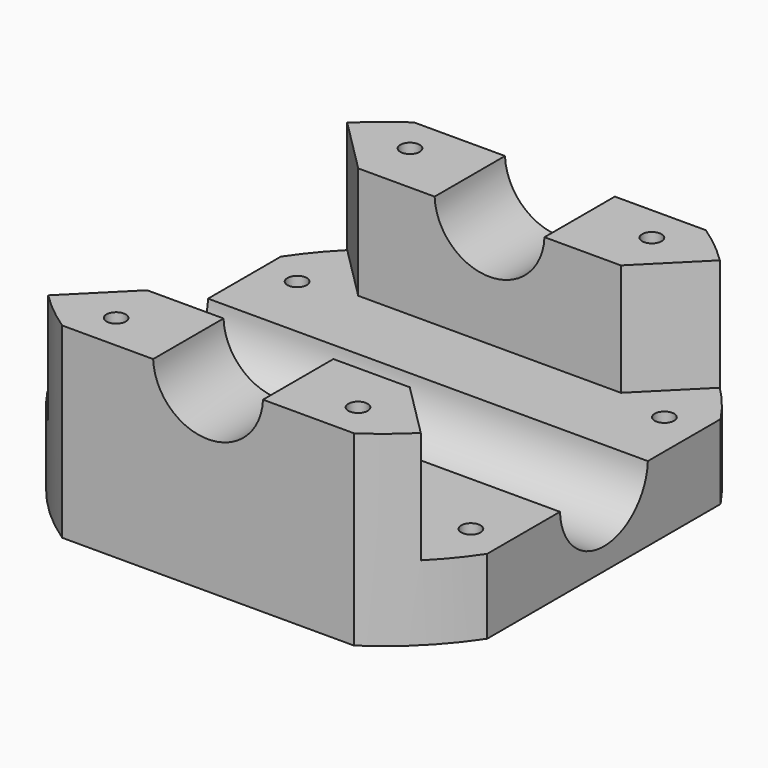
from build123d import *

# Parameters (mm, degrees)
F1_DEPTH         = 42.5
F3_DEPTH         = 25.5
F4_R             = 12.5
F5_DEPTH         = 100.001
F6_R             = 12.5
F7_DEPTH         = 100.0010000004
F9_D             = 4.4
F9_CBORE_D       = 8.75
F9_CBORE_DEPTH   = 40
F10_D            = 4.4
F11_R            = 2.2
F12_DEPTH        = 14.5
F15_D            = 2
F15_DEPTH        = 7.5
F15_TIP          = 0.600860619
F15_ON_F13_D     = 2
F15_ON_F13_DEPTH = 7.5
F15_ON_F13_TIP   = 0.600860619


with BuildPart() as f1:
    # F0 (on Top) → F1 (new body)
    with BuildSketch(Plane.XY):
        with BuildLine():
            Line((33.1662479036, 50), (-33.1662479036, 50))
            ThreePointArc((-33.1662479036, 50), (-42.4264068712, 42.4264068712), (-50, 33.1662479036))
            Line((-50, 33.1662479036), (-50, -33.1662479036))
            ThreePointArc((-50, -33.1662479036), (-42.4264068712, -42.4264068712), (-33.1662479036, -50))
            Line((-33.1662479036, -50), (33.1662479036, -50))
            ThreePointArc((33.1662479036, -50), (42.4264068712, -42.4264068712), (50, -33.1662479036))
            Line((50, -33.1662479036), (50, 33.1662479036))
            ThreePointArc((50, 33.1662479036), (42.4264068712, 42.4264068712), (33.1662479036, 50))
        make_face()
    extrude(amount=F1_DEPTH)

    # F2 (on face) → F3 (cut)
    with BuildSketch(Plane.XY.offset(42.5)):
        with BuildLine():
            Line((-29.8585786438, 30), (-42.3556372675, 42.4970586237))
            ThreePointArc((-42.3556372675, 42.4970586237), (-42.3910367885, 42.4617474911), (-42.4264068712, 42.4264068712))
            ThreePointArc((-42.4264068712, 42.4264068712), (-46.4445670429, 37.985552414), (-50, 33.1662479036))
            Line((-50, 33.1662479036), (-50, -33.1662479036))
            ThreePointArc((-50, -33.1662479036), (-46.4128962783, -38.0242430438), (-42.3556372675, -42.4970586237))
            Line((-42.3556372675, -42.4970586237), (-29.8585786438, -30))
            Line((-29.8585786438, -30), (29.8585786438, -30))
            Line((29.8585786438, -30), (42.3556372675, -42.4970586237))
            ThreePointArc((42.3556372675, -42.4970586237), (42.3910367885, -42.4617474911), (42.4264068712, -42.4264068712))
            ThreePointArc((42.4264068712, -42.4264068712), (46.4445670429, -37.985552414), (50, -33.1662479036))
            Line((50, -33.1662479036), (50, 33.1662479036))
            ThreePointArc((50, 33.1662479036), (46.4445670429, 37.985552414), (42.4264068712, 42.4264068712))
            ThreePointArc((42.4264068712, 42.4264068712), (42.3910367885, 42.4617474911), (42.3556372675, 42.4970586237))
            Line((42.3556372675, 42.4970586237), (29.8585786438, 30))
            Line((29.8585786438, 30), (-29.8585786438, 30))
        make_face()
    extrude(amount=-F3_DEPTH, mode=Mode.SUBTRACT)

    # F4 (on face) → F5 (cut, through all)
    with BuildSketch(Plane.XZ.offset(50)):
        with Locations((0, 43)):
            Circle(F4_R)
    extrude(amount=-F5_DEPTH, mode=Mode.SUBTRACT)

    # F6 (on face) → F7 (cut, through all)
    with BuildSketch(Plane.YZ.offset(50)):
        with Locations((0, 17.5)):
            Circle(F6_R)
    extrude(amount=-F7_DEPTH, mode=Mode.SUBTRACT)

    # F9 (through all)
    with Locations(Plane(origin=(0, 0, 0), x_dir=(1, 0, 0), z_dir=(0, 0, -1))):
        with Locations((-27.5, 41.7582327212), (27.5, 41.7582327212), (27.5, -41.7582327212), (-27.5, -41.7582327212)):
            CounterBoreHole(F9_D / 2, F9_CBORE_D / 2, F9_CBORE_DEPTH)

    # F10 (through all)
    with Locations(Plane(origin=(0, 0, 0), x_dir=(1, 0, 0), z_dir=(0, 0, -1))):
        with Locations((-41.7582327212, 27.5), (-41.7582327212, -27.5), (41.7582327212, -27.5), (41.7582327212, 27.5)):
            Hole(F10_D / 2)

    # F11 (on face) → F12 (cut)
    with BuildSketch(Plane(origin=(0, 0, 0), x_dir=(1, 0, 0), z_dir=(0, 0, -1))):
        Polygon((-41.7582327212, 23.1698729811), (-38.0082327212, 25.3349364905), (-38.0082327212, 29.6650635095), (-41.7582327212, 31.8301270189), (-45.5082327212, 29.6650635095), (-45.5082327212, 25.3349364905), align=None)
        with Locations((-41.7582327212, 27.5)):
            Circle(F11_R, mode=Mode.SUBTRACT)
        Polygon((38.0082327212, 29.6650635095), (38.0082327212, 25.3349364905), (41.7582327212, 23.1698729811), (45.5082327212, 25.3349364905), (45.5082327212, 29.6650635095), (41.7582327212, 31.8301270189), align=None)
        with Locations((41.7582327212, 27.5)):
            Circle(F11_R, mode=Mode.SUBTRACT)
        Polygon((41.7582327212, -23.1698729811), (38.0082327212, -25.3349364905), (38.0082327212, -29.6650635095), (41.7582327212, -31.8301270189), (45.5082327212, -29.6650635095), (45.5082327212, -25.3349364905), align=None)
        with Locations((41.7582327212, -27.5)):
            Circle(F11_R, mode=Mode.SUBTRACT)
        Polygon((-41.7582327212, -31.8301270189), (-38.0082327212, -29.6650635095), (-38.0082327212, -25.3349364905), (-41.7582327212, -23.1698729811), (-45.5082327212, -25.3349364905), (-45.5082327212, -29.6650635095), align=None)
        with Locations((-41.7582327212, -27.5)):
            Circle(F11_R, mode=Mode.SUBTRACT)
    extrude(amount=-F12_DEPTH, mode=Mode.SUBTRACT)

    # F15
    with Locations(Plane(origin=(0, 0, 0), x_dir=(1, 0, 0), z_dir=(0, 0, -1))):
        with Locations((-30, 30), (30, 30), (30, -30), (-30, -30)):
            Hole(F15_D / 2, depth=F15_DEPTH)
            with Locations((0, 0, -(F15_DEPTH + F15_TIP / 2))):  # 118° drill point
                Cone(0, F15_D / 2, F15_TIP, mode=Mode.SUBTRACT)

    # F15 on F13
    with Locations(Plane(origin=(0, 0, 0), x_dir=(1, 0, 0), z_dir=(0, 0, -1))):
        with Locations((31.8, 8.85), (31.8, -19.05), (-20.3, -24.15), (-19, 24.05)):
            Hole(F15_ON_F13_D / 2, depth=F15_ON_F13_DEPTH)
            with Locations((0, 0, -(F15_ON_F13_DEPTH + F15_ON_F13_TIP / 2))):  # 118° drill point
                Cone(0, F15_ON_F13_D / 2, F15_ON_F13_TIP, mode=Mode.SUBTRACT)


solid = f1.part
